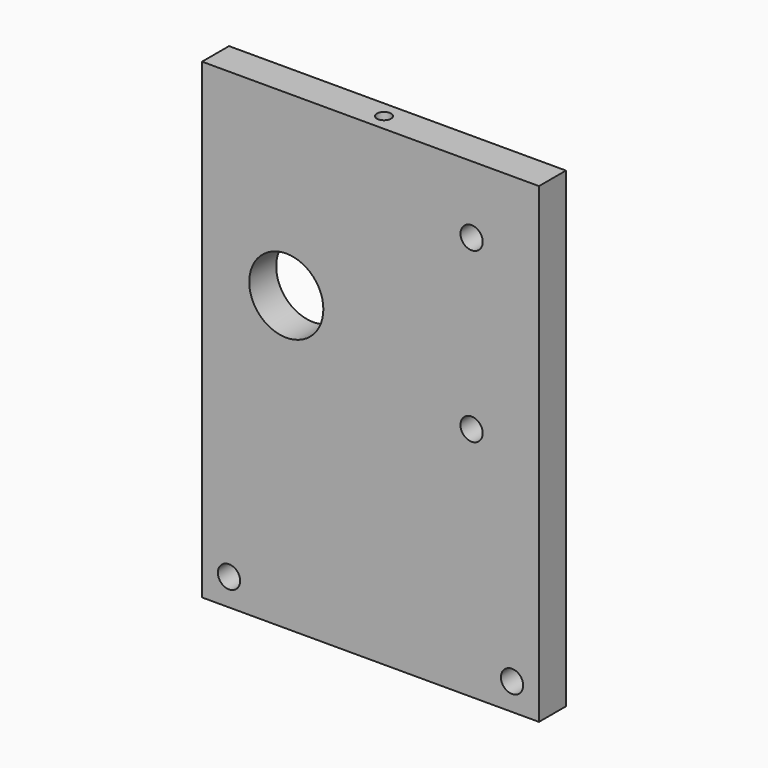
from build123d import *

# Parameters (mm, degrees)
F0_W     = 100
F0_H     = 140
F0_R     = 11
F1_DEPTH = 10
F4_D     = 4.2
F4_DEPTH = 14.4
F4_TIP   = 1.2618073
F5_D     = 6.6


with BuildPart() as f1:
    # F0 (on Front) → F1 (new body)
    with BuildSketch(Plane.XZ):
        Rectangle(F0_W, F0_H)
        with Locations((-25, 17)):
            Circle(F0_R, mode=Mode.SUBTRACT)
    extrude(amount=F1_DEPTH)

    # F4
    with Locations(Plane.XY.offset(70)):
        with Locations((0, -5)):
            Hole(F4_D / 2, depth=F4_DEPTH)
            with Locations((0, 0, -(F4_DEPTH + F4_TIP / 2))):  # 118° drill point
                Cone(0, F4_D / 2, F4_TIP, mode=Mode.SUBTRACT)

    # F5 (through all)
    with Locations(Plane.XZ.offset(10)):
        with Locations((30, 50), (30, 0), (-42, -62), (42, -62)):
            Hole(F5_D / 2)


solid = f1.part
